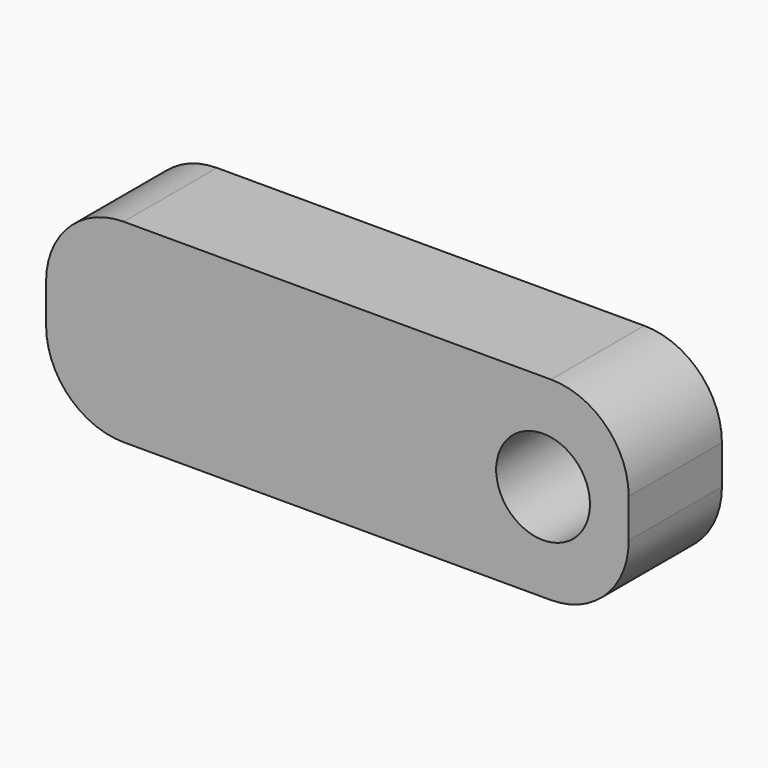
from build123d import *

# Parameters (mm, degrees)
F0_W     = 38.1
F0_H     = 12.7
F1_DEPTH = 7.62
F2_R     = 3.068034
F3_DEPTH = 7.621
F4_R     = 5.08


with BuildPart() as f1:
    # F0 (on Front) → F1 (new body)
    with BuildSketch(Plane.XZ):
        with Locations((-19.05, 6.35)):
            Rectangle(F0_W, F0_H)
    extrude(amount=F1_DEPTH)

    # F2 (on face) → F3 (cut, through all)
    with BuildSketch(Plane.XZ.offset(7.62)):
        with Locations((-5.599708, 6.35)):
            Circle(F2_R)
    extrude(amount=-F3_DEPTH, mode=Mode.SUBTRACT)

    # F4
    f4_edges = [f1.edges().sort_by_distance(p)[0] for p in [
        (0, -3.81, 12.7),
        (0, -3.81, 0),
        (-38.1, -3.81, 12.7),
        (-38.1, -3.81, 0),
    ]]
    fillet(f4_edges, radius=F4_R)


solid = f1.part
